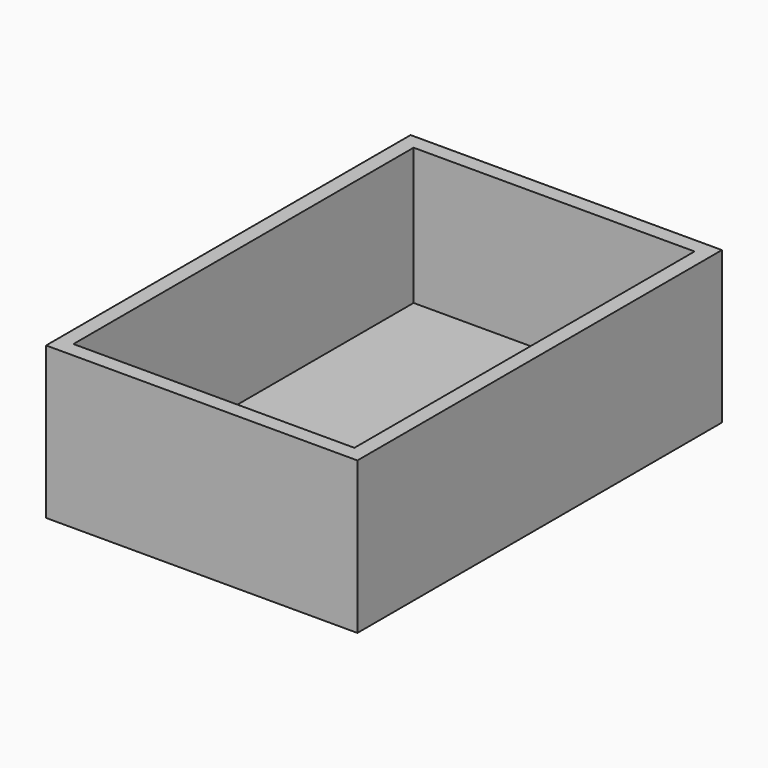
from build123d import *

# Parameters (mm, degrees)
F0_W     = 41
F0_H     = 60
F1_DEPTH = 20
F2_W     = 37
F2_H     = 56
F3_DEPTH = 18
F5_W     = 6
F5_H     = 1.076952
F6_DEPTH = 2
F7_R     = 1.5
F8_DEPTH = 2


with BuildPart() as f1:
    # F0 (on Top) → F1 (new body)
    with BuildSketch(Plane.XY):
        Rectangle(F0_W, F0_H)
    extrude(amount=F1_DEPTH)

    # F2 (on face) → F3 (cut)
    with BuildSketch(Plane.XY.offset(20)):
        Rectangle(F2_W, F2_H)
    extrude(amount=-F3_DEPTH, mode=Mode.SUBTRACT)

    # F5 (on face) → F6 (cut)
    with BuildSketch(Plane.XZ.offset(-28)):
        with Locations((-11.5, 20.538476)):
            Rectangle(F5_W, F5_H)
    extrude(amount=-F6_DEPTH, mode=Mode.SUBTRACT)

    # F7 (on face) → F8 (cut)
    with BuildSketch(Plane.XY.offset(2)):
        with Locations((15.5, -25)):
            Circle(F7_R)
        with Locations((-15.5, -25)):
            Circle(F7_R)
    extrude(amount=-F8_DEPTH, mode=Mode.SUBTRACT)


solid = f1.part
